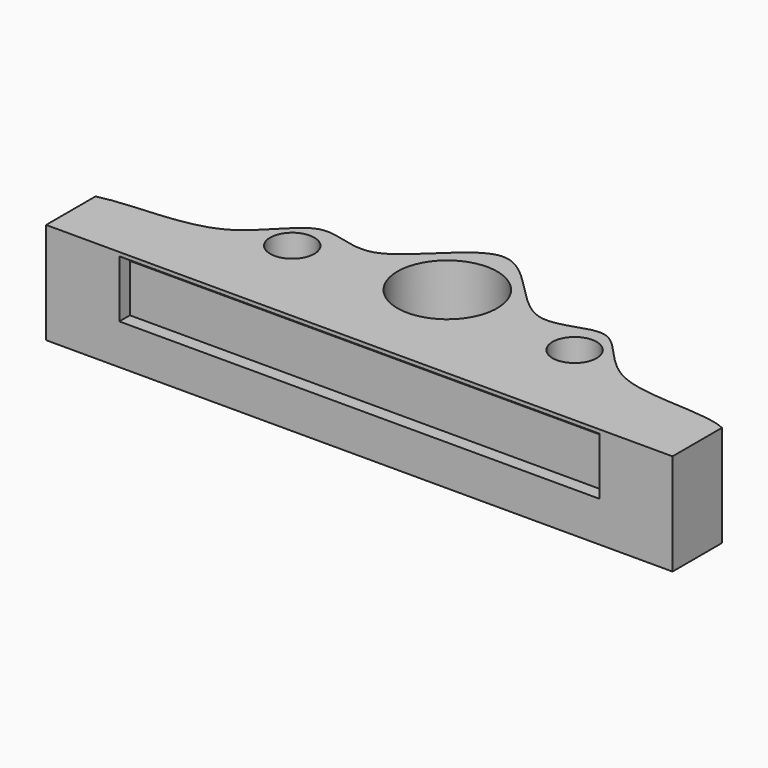
from build123d import *

# Parameters (mm, degrees)
F0_W      = 71
F0_H      = 7
F1_DEPTH  = 11.5
F2_DEPTH  = 8.5
F3_D      = 11.3
F3_DEPTH  = 7
F3_TIP    = 3.3948624975
F4_D      = 5
F5_W      = 54.4
F5_H      = 6.5
F6_DEPTH  = 2
F7_W      = 67
F7_H      = 4
F8_DEPTH  = 11
F9_DEPTH  = 1.5
F11_DEPTH = 1


with BuildPart() as f1:
    # F0 (on Top) → F1 (new body)
    with BuildSketch(Plane.XY):
        Rectangle(F0_W, F0_H)
    extrude(amount=-F1_DEPTH)

    # F0 (on Top) → F2 (join)
    with BuildSketch(Plane.XY):
        with BuildLine():
            Line((-35.5, 3.5), (35.5, 3.5))
            add(Edge.make_bspline(
                [(-35.5, 3.5), (-31.7892338116, 4.4415049229), (-21.6860122118, 3.2763770589), (-16.6904715647, 13.3424173057), (-8.7534108522, 7.526993845), (0.1025576313, 22.6507828449), (8.6295259929, 6.657731039), (16.9072898845, 13.6236338522), (21.3437807599, 2.9996457437), (32.6262475802, 4.9459796222), (35.5, 3.5)],
                knots=[0, 0, 0, 0, 0.1448271222, 0.2612831799, 0.3635511087, 0.4987997588, 0.6356236458, 0.7394136822, 0.8551743893, 1, 1, 1, 1], degree=3))
        make_face()
    extrude(amount=-F2_DEPTH)

    # F3
    with Locations(Plane.XY):
        with Locations((0, 8.967153728)):
            Hole(F3_D / 2, depth=F3_DEPTH)
            with Locations((0, 0, -(F3_DEPTH + F3_TIP / 2))):  # 118° drill point
                Cone(0, F3_D / 2, F3_TIP, mode=Mode.SUBTRACT)

    # F4 (through all)
    with Locations(Plane.XY):
        with Locations((-16, 7), (16, 7)):
            Hole(F4_D / 2)

    # F5 (on face) → F6 (cut)
    with BuildSketch(Plane.XZ.offset(3.5)):
        with Locations((0, -3.6788322031)):
            Rectangle(F5_W, F5_H)
    extrude(amount=-F6_DEPTH, mode=Mode.SUBTRACT)

    # F7 (on face) → F8 (cut)
    with BuildSketch(Plane.XY):
        Rectangle(F7_W, F7_H)
    extrude(amount=-F8_DEPTH, mode=Mode.SUBTRACT)

    # F7 (on face) → F9 (join)
    with BuildSketch(Plane.XY):
        Rectangle(F7_W, F7_H)
    extrude(amount=-F9_DEPTH)

    # F11 (add): a face of the model
    f11_faces = [f1.faces().sort_by_distance(p)[0] for p in [
        (0, 0, -11.5),
    ]]
    extrude(f11_faces, amount=-F11_DEPTH)


solid = f1.part
